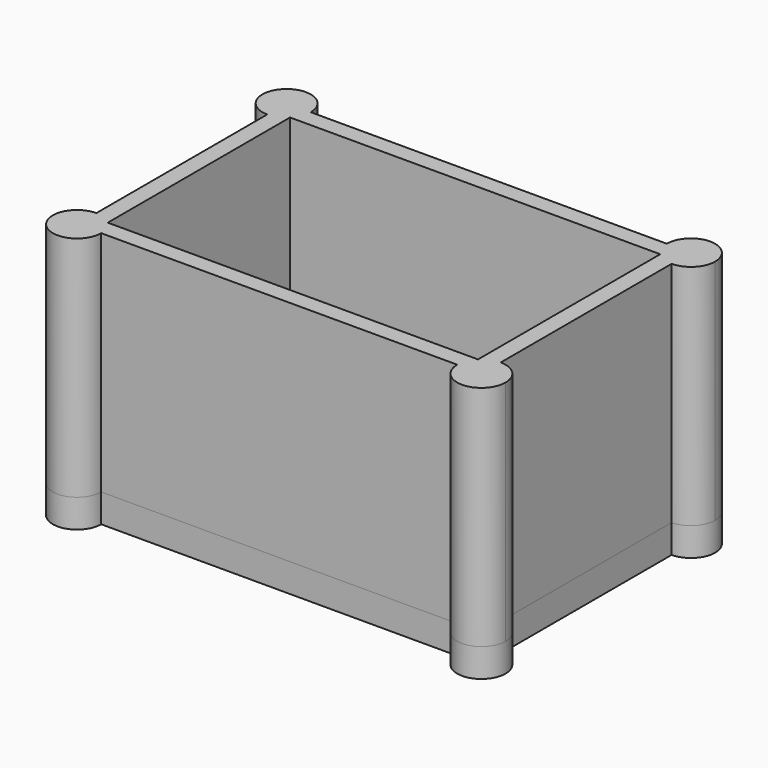
from build123d import *

# Parameters (mm, degrees)
F1_DEPTH = 40
F2_W     = 65
F2_H     = 40
F3_DEPTH = 5
F5_DEPTH = 6


with BuildPart() as f1:
    # F0 (on Top) → F1 (new body)
    with BuildSketch(Plane.XY):
        with BuildLine():
            Line((-3, 43), (1.2426406871, 43))
            ThreePointArc((1.2426406871, 43), (-6, 46), (-3, 38.7573593129))
            Line((-3, 38.7573593129), (-3, 43))
        make_face()
        with BuildLine():
            ThreePointArc((-3, 38.7573593129), (-1.3764116996, 39.0803111054), (0, 40))
            ThreePointArc((0, 40), (0.9196888946, 41.3764116996), (1.2426406871, 43))
            Line((1.2426406871, 43), (-3, 43))
            Line((-3, 43), (-3, 38.7573593129))
        make_face()
        with BuildLine():
            ThreePointArc((-3, 1.2426406871), (-1.3764116996, 0.9196888946), (0, 0))
            Line((0, 0), (0, 40))
            ThreePointArc((0, 40), (-1.3764116996, 39.0803111054), (-3, 38.7573593129))
            Line((-3, 38.7573593129), (-3, 1.2426406871))
        make_face()
        with BuildLine():
            ThreePointArc((1.2426406871, 43), (0.9196888946, 41.3764116996), (0, 40))
            Line((0, 40), (65, 40))
            ThreePointArc((65, 40), (64.0803111054, 41.3764116996), (63.7573593129, 43))
            Line((63.7573593129, 43), (1.2426406871, 43))
        make_face()
        with BuildLine():
            ThreePointArc((72.2426406871, 43), (68, 47.2426406871), (63.7573593129, 43))
            Line((63.7573593129, 43), (68, 43))
            Line((68, 43), (68, 38.7573593129))
            ThreePointArc((68, 38.7573593129), (71, 40), (72.2426406871, 43))
        make_face()
        with BuildLine():
            ThreePointArc((63.7573593129, 43), (64.0803111054, 41.3764116996), (65, 40))
            ThreePointArc((65, 40), (66.3764116996, 39.0803111054), (68, 38.7573593129))
            Line((68, 38.7573593129), (68, 43))
            Line((68, 43), (63.7573593129, 43))
        make_face()
        with BuildLine():
            ThreePointArc((72.2426406871, -3), (71, 0), (68, 1.2426406871))
            Line((68, 1.2426406871), (68, -3))
            Line((68, -3), (63.7573593129, -3))
            ThreePointArc((63.7573593129, -3), (68, -7.2426406871), (72.2426406871, -3))
        make_face()
        with BuildLine():
            ThreePointArc((68, 1.2426406871), (66.3764116996, 0.9196888946), (65, 0))
            ThreePointArc((65, 0), (64.0803111054, -1.3764116996), (63.7573593129, -3))
            Line((63.7573593129, -3), (68, -3))
            Line((68, -3), (68, 1.2426406871))
        make_face()
        with BuildLine():
            ThreePointArc((-3, 1.2426406871), (-6, -6), (1.2426406871, -3))
            Line((1.2426406871, -3), (-3, -3))
            Line((-3, -3), (-3, 1.2426406871))
        make_face()
        with BuildLine():
            ThreePointArc((1.2426406871, -3), (0.9196888946, -1.3764116996), (0, 0))
            ThreePointArc((0, 0), (-1.3764116996, 0.9196888946), (-3, 1.2426406871))
            Line((-3, 1.2426406871), (-3, -3))
            Line((-3, -3), (1.2426406871, -3))
        make_face()
        with BuildLine():
            Line((65, 0), (0, 0))
            ThreePointArc((0, 0), (0.9196888946, -1.3764116996), (1.2426406871, -3))
            Line((1.2426406871, -3), (63.7573593129, -3))
            ThreePointArc((63.7573593129, -3), (64.0803111054, -1.3764116996), (65, 0))
        make_face()
        with BuildLine():
            Line((65, 40), (65, 0))
            ThreePointArc((65, 0), (66.3764116996, 0.9196888946), (68, 1.2426406871))
            Line((68, 1.2426406871), (68, 38.7573593129))
            ThreePointArc((68, 38.7573593129), (66.3764116996, 39.0803111054), (65, 40))
        make_face()
    extrude(amount=F1_DEPTH)

    # F2 (on face) → F3 (join)
    with BuildSketch(Plane(origin=(0, 0, 0), x_dir=(1, 0, 0), z_dir=(0, 0, -1))):
        with BuildLine():
            Line((-3, -1.2426406871), (-3, -38.7573593129))
            ThreePointArc((-3, -38.7573593129), (-6, -46), (1.2426406871, -43))
            Line((1.2426406871, -43), (63.7573593129, -43))
            ThreePointArc((63.7573593129, -43), (71, -46), (68, -38.7573593129))
            Line((68, -38.7573593129), (68, -1.2426406871))
            ThreePointArc((68, -1.2426406871), (71, 6), (63.7573593129, 3))
            Line((63.7573593129, 3), (1.2426406871, 3))
            ThreePointArc((1.2426406871, 3), (-6, 6), (-3, -1.2426406871))
        make_face()
        with Locations((32.5, -20)):
            Rectangle(F2_W, F2_H, mode=Mode.SUBTRACT)
        with Locations((32.5, -20)):
            Rectangle(F2_W, F2_H)
    extrude(amount=F3_DEPTH)

    # F4 (on face) → F5 (join)
    with BuildSketch(Plane.XY):
        with BuildLine():
            ThreePointArc((22, 35), (16.8786796564, 37.1213203436), (19, 32))
            Line((19, 32), (19, 33.65))
            ThreePointArc((19, 33.65), (18.0454058454, 35.9545941546), (20.35, 35))
            Line((20.35, 35), (22, 35))
        make_face()
        with BuildLine():
            Line((19, 33.65), (19, 32))
            ThreePointArc((19, 32), (21.1213203436, 32.8786796564), (22, 35))
            Line((22, 35), (20.35, 35))
            ThreePointArc((20.35, 35), (19.9545941546, 34.0454058454), (19, 33.65))
        make_face()
        with BuildLine():
            Line((46, 33.65), (46, 32))
            ThreePointArc((46, 32), (48.1213203436, 32.8786796564), (49, 35))
            ThreePointArc((49, 35), (46, 38), (43, 35))
            Line((43, 35), (44.65, 35))
            ThreePointArc((44.65, 35), (46, 36.35), (47.35, 35))
            ThreePointArc((47.35, 35), (46.9545941546, 34.0454058454), (46, 33.65))
        make_face()
        with BuildLine():
            ThreePointArc((43, 35), (43.8786796564, 32.8786796564), (46, 32))
            Line((46, 32), (46, 33.65))
            ThreePointArc((46, 33.65), (45.0454058454, 34.0454058454), (44.65, 35))
            Line((44.65, 35), (43, 35))
        make_face()
        with BuildLine():
            ThreePointArc((19, 6.35), (19.9545941546, 5.9545941546), (20.35, 5))
            Line((20.35, 5), (22, 5))
            ThreePointArc((22, 5), (21.1213203436, 7.1213203436), (19, 8))
            Line((19, 8), (19, 6.35))
        make_face()
        with BuildLine():
            Line((22, 5), (20.35, 5))
            ThreePointArc((20.35, 5), (18.0454058454, 4.0454058454), (19, 6.35))
            Line((19, 6.35), (19, 8))
            ThreePointArc((19, 8), (16.8786796564, 2.8786796564), (22, 5))
        make_face()
        with BuildLine():
            ThreePointArc((46, 8), (43.8786796564, 7.1213203436), (43, 5))
            Line((43, 5), (44.65, 5))
            ThreePointArc((44.65, 5), (45.0454058454, 5.9545941546), (46, 6.35))
            Line((46, 6.35), (46, 8))
        make_face()
        with BuildLine():
            Line((44.65, 5), (43, 5))
            ThreePointArc((43, 5), (46, 2), (49, 5))
            ThreePointArc((49, 5), (48.1213203436, 7.1213203436), (46, 8))
            Line((46, 8), (46, 6.35))
            ThreePointArc((46, 6.35), (46.9545941546, 5.9545941546), (47.35, 5))
            ThreePointArc((47.35, 5), (46, 3.65), (44.65, 5))
        make_face()
    extrude(amount=F5_DEPTH)


solid = f1.part
